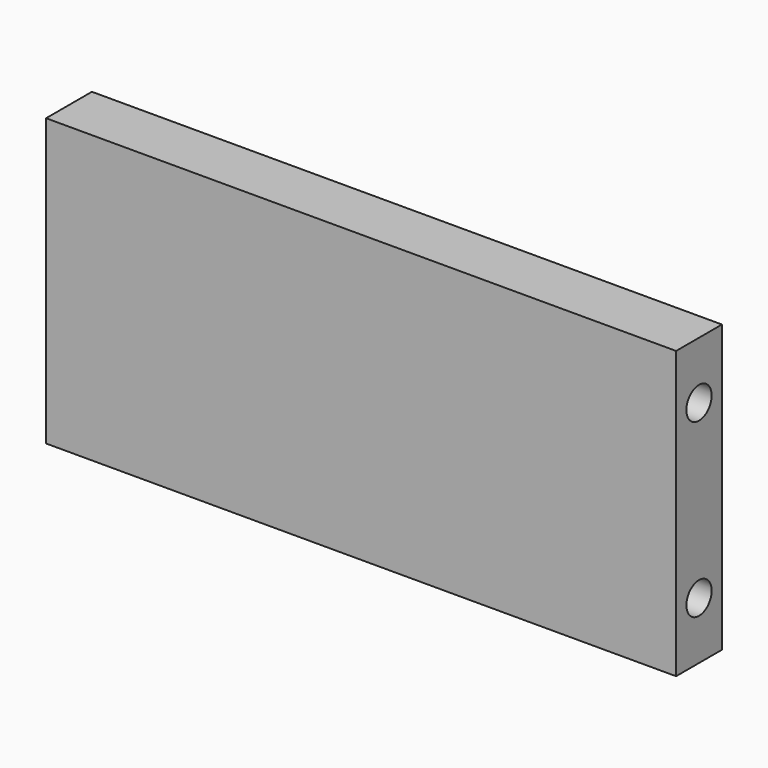
from build123d import *

# Parameters (mm, degrees)
F0_W     = 69.85
F0_H     = 6.35
F1_DEPTH = 31.75
F2_R     = 1.75
F3_DEPTH = 12.7
F4_R     = 1.75
F5_DEPTH = 12.7


with BuildPart() as f1:
    # F0 (on Top) → F1 (new body)
    with BuildSketch(Plane.XY):
        with Locations((34.925, -3.175)):
            Rectangle(F0_W, F0_H)
    extrude(amount=F1_DEPTH)

    # F2 (on face) → F3 (cut)
    with BuildSketch(Plane.YZ.offset(69.85)):
        with Locations((-3.175, 25.4)):
            Circle(F2_R)
        with Locations((-3.175, 6.35)):
            Circle(F2_R)
    extrude(amount=-F3_DEPTH, mode=Mode.SUBTRACT)

    # F4 (on face) → F5 (cut)
    with BuildSketch(Plane(origin=(0, 0, 0), x_dir=(0, -1, 0), z_dir=(-1, 0, 0))):
        with Locations((3.175, 6.35)):
            Circle(F4_R)
        with Locations((3.175, 25.4)):
            Circle(F4_R)
    extrude(amount=-F5_DEPTH, mode=Mode.SUBTRACT)


solid = f1.part
